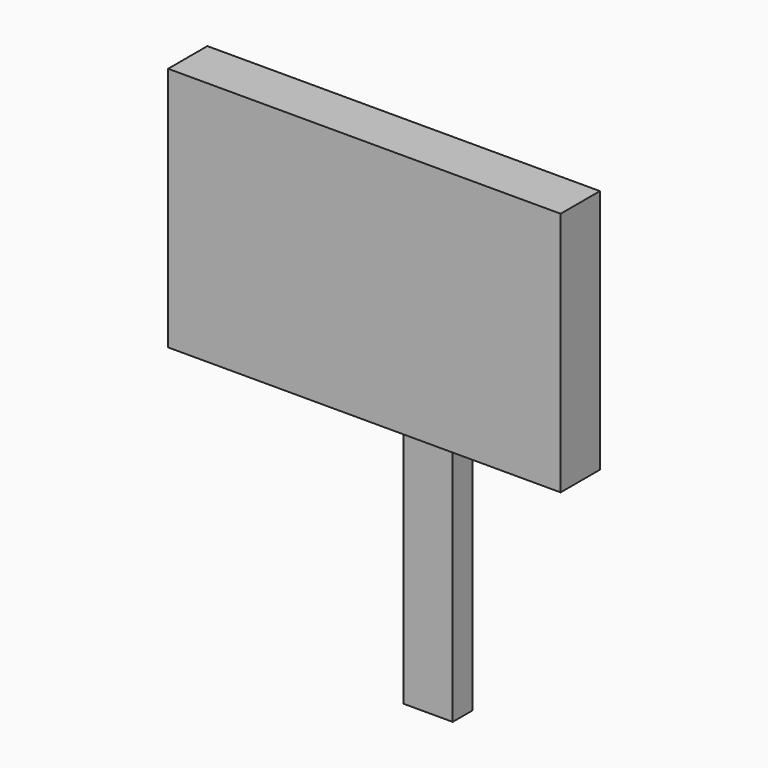
from build123d import *

# Parameters (mm, degrees)
F0_W     = 80
F0_H     = 50
F1_DEPTH = 10
F2_W     = 5
F2_H     = 80
F3_DEPTH = 10


with BuildPart() as f1:
    # F0 (on Front) → F1 (new body)
    with BuildSketch(Plane.XZ):
        Rectangle(F0_W, F0_H)
    extrude(amount=F1_DEPTH)

    # F2 (on Right) → F3 (join)
    with BuildSketch(Plane.YZ):
        with Locations((2.5, -40)):
            Rectangle(F2_W, F2_H)
    extrude(amount=F3_DEPTH)


solid = f1.part
